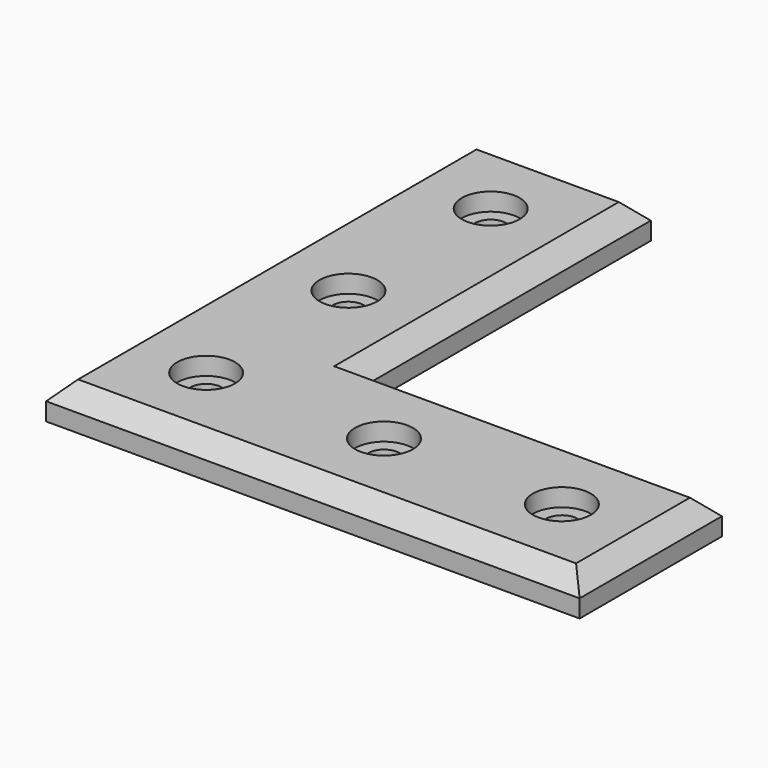
from build123d import *

# Parameters (mm, degrees)
F2_R     = 3.25
F2_R_2   = 1.75
F3_DEPTH = 4
F4_DEPTH = 4.001
F5_DEPTH = 2
F6_SIZE  = 2


with BuildPart() as f3:
    # F2 (on Top) → F3 (new body)
    with BuildSketch(Plane.XY):
        Polygon((0, 60), (0, 0), (60, 0), (60, 20), (20, 20), (20, 60), align=None)
        with Locations((10, 10)):
            Circle(F2_R, mode=Mode.SUBTRACT)
        with Locations((30, 10)):
            Circle(F2_R, mode=Mode.SUBTRACT)
        with Locations((50, 10)):
            Circle(F2_R, mode=Mode.SUBTRACT)
        with Locations((10, 30)):
            Circle(F2_R, mode=Mode.SUBTRACT)
        with Locations((10, 50)):
            Circle(F2_R, mode=Mode.SUBTRACT)
        with Locations((10, 50)):
            Circle(F2_R)
        with Locations((10, 50)):
            Circle(F2_R_2, mode=Mode.SUBTRACT)
        with Locations((10, 30)):
            Circle(F2_R)
        with Locations((10, 30)):
            Circle(F2_R_2, mode=Mode.SUBTRACT)
        with Locations((10, 10)):
            Circle(F2_R)
        with Locations((10, 10)):
            Circle(F2_R_2, mode=Mode.SUBTRACT)
        with Locations((30, 10)):
            Circle(F2_R)
        with Locations((30, 10)):
            Circle(F2_R_2, mode=Mode.SUBTRACT)
        with Locations((50, 10)):
            Circle(F2_R)
        with Locations((50, 10)):
            Circle(F2_R_2, mode=Mode.SUBTRACT)
        with Locations((10, 50)):
            Circle(F2_R_2)
        with Locations((10, 30)):
            Circle(F2_R_2)
        with Locations((10, 10)):
            Circle(F2_R_2)
        with Locations((30, 10)):
            Circle(F2_R_2)
        with Locations((50, 10)):
            Circle(F2_R_2)
    extrude(amount=-F3_DEPTH)

    # F2 (on Top) → F4 (cut, through all)
    with BuildSketch(Plane.XY):
        with Locations((10, 50)):
            Circle(F2_R_2)
        with Locations((10, 30)):
            Circle(F2_R_2)
        with Locations((10, 10)):
            Circle(F2_R_2)
        with Locations((30, 10)):
            Circle(F2_R_2)
        with Locations((50, 10)):
            Circle(F2_R_2)
    extrude(amount=-F4_DEPTH, mode=Mode.SUBTRACT)

    # F2 (on Top) → F5 (cut)
    with BuildSketch(Plane.XY):
        with Locations((10, 50)):
            Circle(F2_R)
        with Locations((10, 50)):
            Circle(F2_R_2, mode=Mode.SUBTRACT)
        with Locations((10, 30)):
            Circle(F2_R)
        with Locations((10, 30)):
            Circle(F2_R_2, mode=Mode.SUBTRACT)
        with Locations((10, 10)):
            Circle(F2_R)
        with Locations((10, 10)):
            Circle(F2_R_2, mode=Mode.SUBTRACT)
        with Locations((30, 10)):
            Circle(F2_R)
        with Locations((30, 10)):
            Circle(F2_R_2, mode=Mode.SUBTRACT)
        with Locations((50, 10)):
            Circle(F2_R)
        with Locations((50, 10)):
            Circle(F2_R_2, mode=Mode.SUBTRACT)
    extrude(amount=-F5_DEPTH, mode=Mode.SUBTRACT)

    # F6
    f6_edges = [f3.edges().sort_by_distance(p)[0] for p in [
        (40, 20, 0),
        (20, 40, 0),
        (10, 60, 0),
        (0, 30, 0),
        (30, 0, 0),
        (60, 10, 0),
    ]]
    chamfer(f6_edges, length=F6_SIZE)


solid = f3.part
